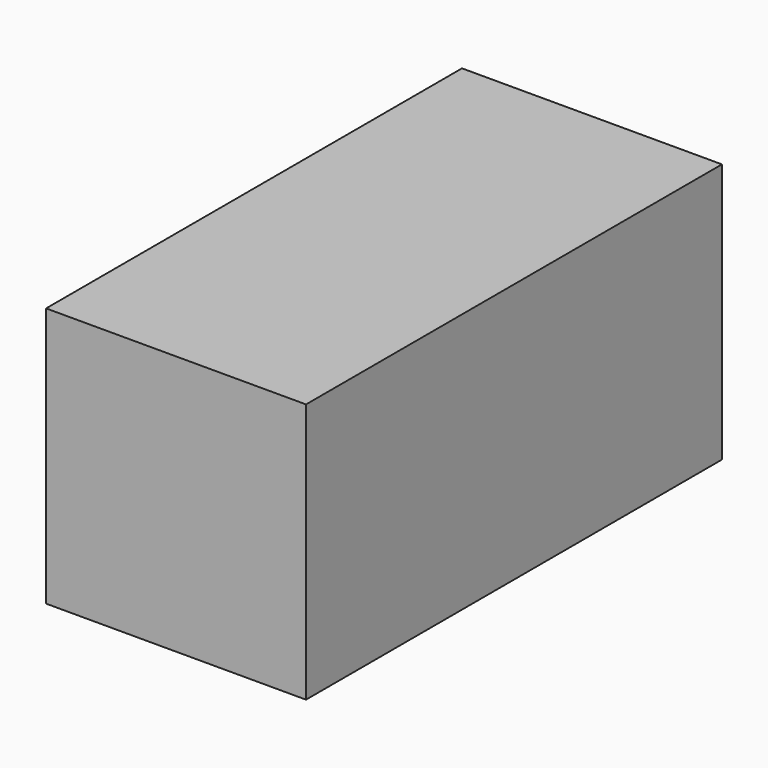
from build123d import *

# Parameters (mm, degrees)
F0_W     = 50.8
F0_H     = 50.8
F1_DEPTH = 101.6
F2_W     = 44.428077
F2_H     = 94.380885
F3_DEPTH = 44.45


with BuildPart() as f1:
    # F0 (on Front) → F1 (new body)
    with BuildSketch(Plane.XZ):
        with Locations((25.4, 25.4)):
            Rectangle(F0_W, F0_H)
    extrude(amount=F1_DEPTH)

    # F2 (on Top) → F3 (cut)
    with BuildSketch(Plane.XY):
        with Locations((25.551899, -51.258042)):
            Rectangle(F2_W, F2_H)
    extrude(amount=F3_DEPTH, mode=Mode.SUBTRACT)


solid = f1.part
